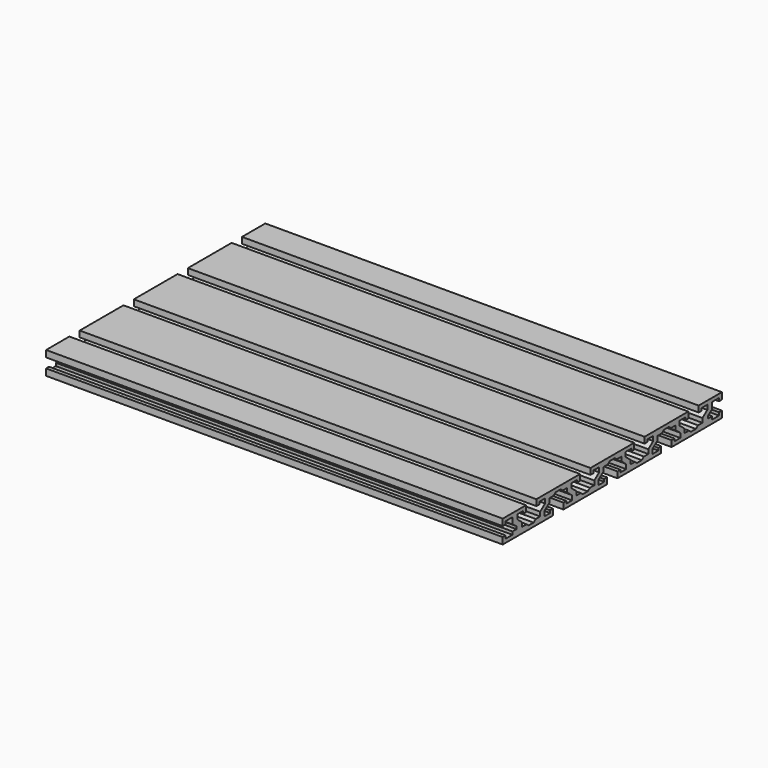
from build123d import *

# Parameters (mm, degrees)
SKETCH_W               = 180
SKETCH_H               = 15
PAD_DEPTH              = 150
POCKET_DEPTH           = 1000.358052
POCKET001_DEPTH        = 300.001
LINEARPATTERN_COUNT    = 4
LINEARPATTERN_PITCH    = 44.416667
POCKET002_DEPTH        = 300.001
LINEARPATTERN001_COUNT = 3
LINEARPATTERN001_PITCH = 44.415


with BuildPart() as part:
    # Sketch → Pad (new body, symmetric)
    with BuildSketch(Plane.YZ):
        Rectangle(SKETCH_W, SKETCH_H)
    extrude(amount=PAD_DEPTH, both=True)

    # Sketch001 (on Face6 of Pad) → Pocket (cut, through all)
    with BuildSketch(Plane.YZ.offset(150)):
        Polygon((-90, 3.175), (-87.6, 3.175), (-87.6, 5.1), (-82, 5.1), (-82, 0.9), (-78.75, -1.425), (-78.75, -3.175), (-82, -3.175), (-82, -5.1), (-87.6, -5.1), (-87.6, -3.175), (-90, -3.175), align=None)
    pocket = extrude(amount=-POCKET_DEPTH, mode=Mode.SUBTRACT)

    # Mirrored: Pocket across XZ
    add(pocket.mirror(Plane.XZ), mode=Mode.SUBTRACT)

    # Sketch002 (on Face5 of Mirrored) → Pocket001 (cut, through all)
    with BuildSketch(Plane.YZ.offset(150)):
        Polygon((-70.875, 7.5), (-70.875, 3.5), (-73.275, 3.5), (-73.275, 5.1), (-78, 5.1), (-78, 2.1), (-74, -0.972), (-74, -3.75), (-70.382812, -3.75), (-68.625, -5.1), (-64.625, -5.1), (-62.867188, -3.75), (-59.25, -3.75), (-59.25, -0.972), (-55.25, 2.1), (-55.25, 5.1), (-59.975, 5.1), (-59.975, 3.5), (-62.375, 3.5), (-62.375, 7.5), align=None)
    pocket001 = extrude(amount=-POCKET001_DEPTH, mode=Mode.SUBTRACT)

    # LinearPattern: Pocket001 ×4
    with Locations(*[(0, i * LINEARPATTERN_PITCH, 0) for i in range(1, LINEARPATTERN_COUNT)]):
        add(pocket001, mode=Mode.SUBTRACT)

    # Sketch003 (on Face4 of LinearPattern) → Pocket002 (cut, through all)
    with BuildSketch(Plane.YZ.offset(150)):
        Polygon((-48.666667, -7.5), (-48.666667, -3.5), (-51.066667, -3.5), (-51.066667, -5.1), (-55.791667, -5.1), (-55.791667, -2.1), (-51.791667, 0.972), (-51.791667, 3.75), (-48.174479, 3.75), (-46.416667, 5.1), (-42.416667, 5.1), (-40.658854, 3.75), (-37.041667, 3.75), (-37.041667, 0.972), (-33.041667, -2.1), (-33.041667, -5.1), (-37.766667, -5.1), (-37.766667, -3.5), (-40.166667, -3.5), (-40.166667, -7.5), align=None)
    pocket002 = extrude(amount=-POCKET002_DEPTH, mode=Mode.SUBTRACT)

    # LinearPattern001: Pocket002 ×3
    with Locations(*[(0, i * LINEARPATTERN001_PITCH, 0) for i in range(1, LINEARPATTERN001_COUNT)]):
        add(pocket002, mode=Mode.SUBTRACT)


solid = part.part
